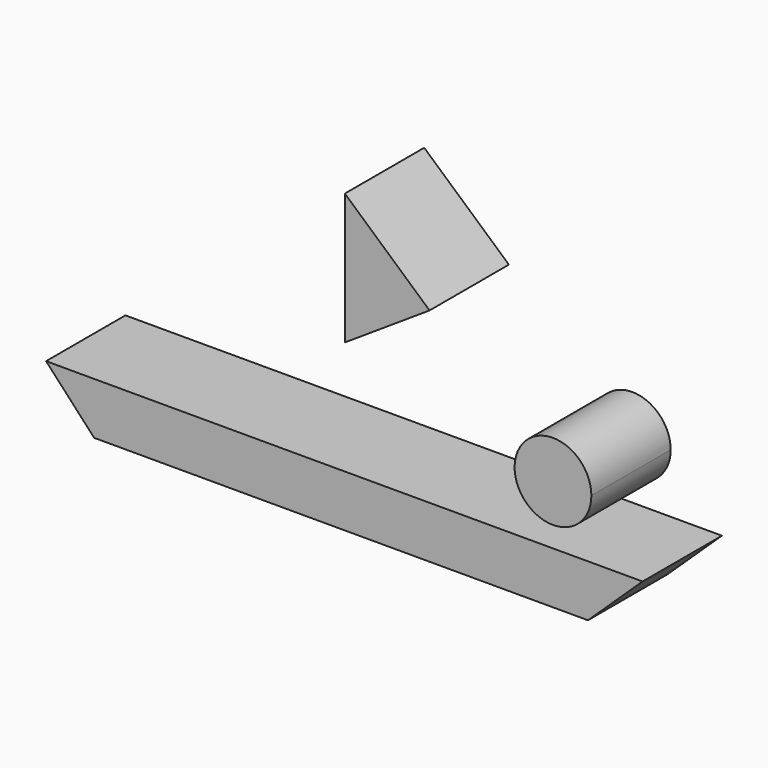
from build123d import *

# Parameters (mm, degrees)
F1_DEPTH = 25.4


with BuildPart() as f1:
    # F0 (on Front) → F1 (new body)
    with BuildSketch(Plane.XZ):
        Polygon((0, 75.953551), (0, 42.382922), (21.681031, 56.650437), align=None)
        with BuildLine():
            ThreePointArc((63.116733, 28.395159), (46.347209, 35.341324), (53.293373, 18.571799))
            ThreePointArc((53.293373, 18.571799), (60.239538, 21.448995), (63.116733, 28.395159))
        make_face()
        Polygon((-64.203829, 0), (0, 0), (62.245544, 0), (76.233305, 13.288374), (53.293373, 13.288374), (0, 13.288374), (-76.513059, 13.288374), align=None)
    extrude(amount=F1_DEPTH)


solid = f1.part
